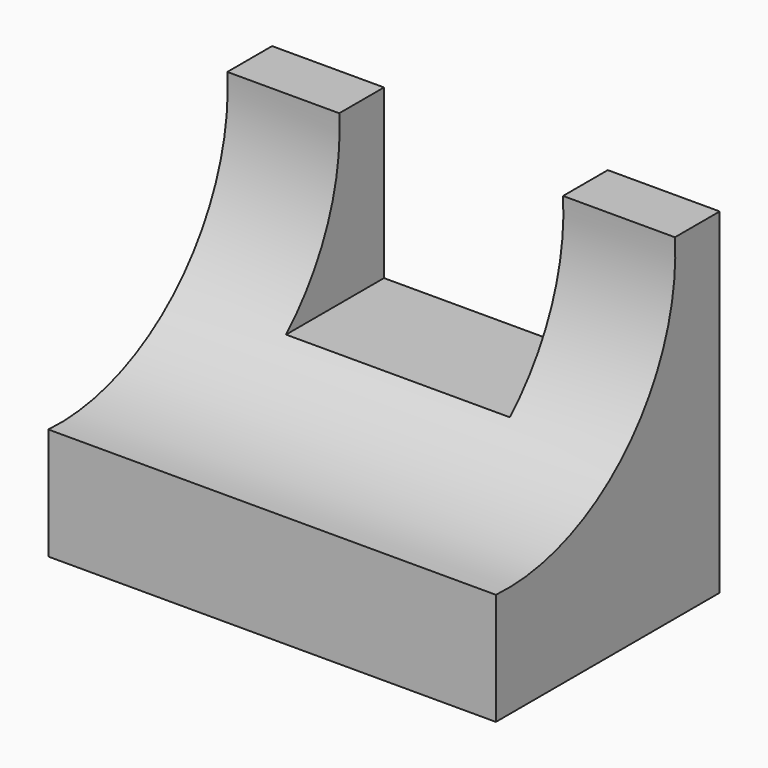
from build123d import *

# Parameters (mm, degrees)
F0_W     = 50.8
F0_H     = 38.1
F1_DEPTH = 31.75
F3_DEPTH = 50.801
F4_W     = 25.4
F4_H     = 19.05
F5_DEPTH = 31.751


with BuildPart() as f1:
    # F0 (on Front) → F1 (new body)
    with BuildSketch(Plane.XZ):
        with Locations((-25.4, 19.05)):
            Rectangle(F0_W, F0_H)
    extrude(amount=F1_DEPTH)

    # F2 (on face) → F3 (cut, through all)
    with BuildSketch(Plane.YZ):
        with BuildLine():
            Line((-31.75, 38.1), (-31.75, 12.7))
            ThreePointArc((-31.75, 12.7), (-13.287516, 19.637516), (-6.35, 38.1))
            Line((-6.35, 38.1), (-31.75, 38.1))
        make_face()
    extrude(amount=-F3_DEPTH, mode=Mode.SUBTRACT)

    # F4 (on face) → F5 (cut, through all)
    with BuildSketch(Plane(origin=(0, 0, 0), x_dir=(-1, 0, 0), z_dir=(0, 1, 0))):
        with Locations((25.4, 28.575)):
            Rectangle(F4_W, F4_H)
    extrude(amount=-F5_DEPTH, mode=Mode.SUBTRACT)


solid = f1.part
